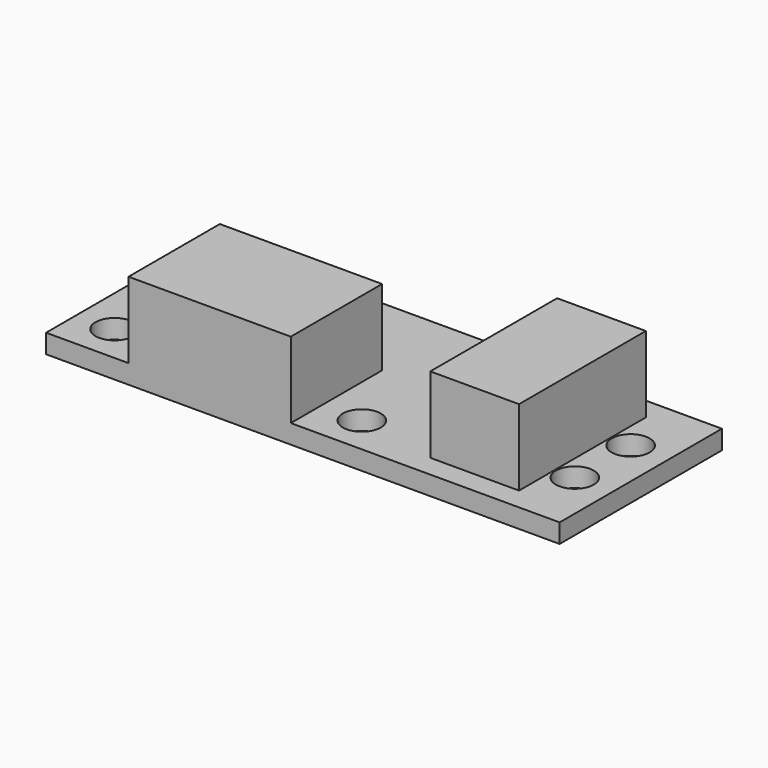
from build123d import *

# Parameters (mm, degrees)
SKETCH027_W     = 40.5
SKETCH027_H     = 16
PAD017_DEPTH    = 1.5
SKETCH028_R     = 1.5
POCKET009_DEPTH = 1.501
SKETCH029_W     = 12.8
SKETCH029_H     = 9
SKETCH029_W_2   = 7
SKETCH029_H_2   = 12.5
PAD018_DEPTH    = 6


with BuildPart() as part:
    # Sketch027 → Pad017 (new body)
    with BuildSketch(Plane.XY):
        with Locations((20.25, 8)):
            Rectangle(SKETCH027_W, SKETCH027_H)
    extrude(amount=PAD017_DEPTH)

    # Sketch028 (on Face6 of Pad017) → Pocket009 (cut, through all)
    with BuildSketch(Plane.XY.offset(1.5)):
        with Locations((3, 3)):
            Circle(SKETCH028_R)
        with Locations((22.5, 3)):
            Circle(SKETCH028_R)
        with Locations((37.5, 10.75)):
            Circle(SKETCH028_R)
        with Locations((37.5, 5.25)):
            Circle(SKETCH028_R)
    extrude(amount=-POCKET009_DEPTH, mode=Mode.SUBTRACT)

    # Sketch029 (on Face5 of Pocket009) → Pad018 (join)
    with BuildSketch(Plane.XY.offset(1.5)):
        with Locations((12.9, 4.5)):
            Rectangle(SKETCH029_W, SKETCH029_H)
        with Locations((32.4, 8)):
            Rectangle(SKETCH029_W_2, SKETCH029_H_2)
    extrude(amount=PAD018_DEPTH)


solid = part.part
